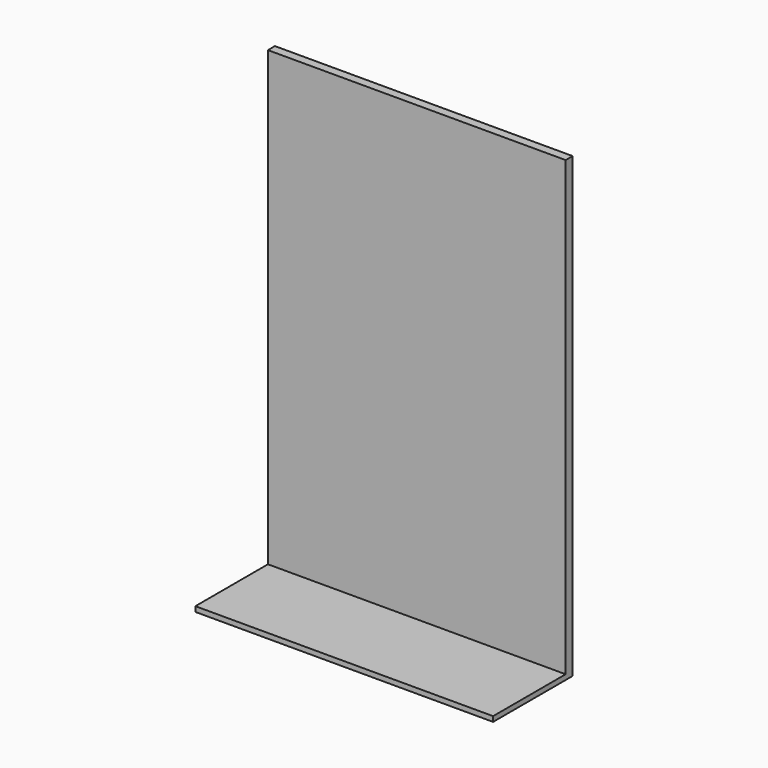
from build123d import *

# Parameters (mm, degrees)
F1_DEPTH = 228.6
F0_W     = 14.8112885654
F0_H     = 40.948856622
F0_W_2   = 2.9041729867
F0_W_3   = 24.6854852885
F0_W_4   = 4.3562594801
F0_W_5   = 24.3950609583
F0_W_6   = 6.6796054598
F0_W_7   = 55.7601368055
F2_DEPTH = 2.54


with BuildPart() as f1:
    # F0 (on Top) → F1 (new body)
    with BuildSketch(Plane.XY):
        Polygon((65.9247487783, 20.474428311), (74.3468627334, 20.474428311), (74.3468627334, 24.8306896538), (-74.3468627334, 24.8306896538), (-74.3468627334, 20.474428311), (-67.667260766, 20.474428311), (-52.8559722006, 20.474428311), (-49.9517992139, 20.474428311), (-25.2663139254, 20.474428311), (-20.9100544453, 20.474428311), (3.4850065131, 20.474428311), (10.1646119729, 20.474428311), align=None)
    extrude(amount=F1_DEPTH)

    # F0 (on Top) → F2 (join)
    with BuildSketch(Plane.XY):
        Polygon((65.9247487783, -24.8306896538), (74.3468627334, -24.8306896538), (74.3468627334, 20.474428311), (65.9247487783, 20.474428311), (65.9247487783, -20.474428311), align=None)
        Polygon((-67.667260766, -24.8306896538), (65.9247487783, -24.8306896538), (65.9247487783, -20.474428311), (10.1646119729, -20.474428311), (3.4850065131, -20.474428311), (-20.9100544453, -20.474428311), (-25.2663139254, -20.474428311), (-49.9517992139, -20.474428311), (-52.8559722006, -20.474428311), (-67.667260766, -20.474428311), align=None)
        Polygon((65.9247487783, 20.474428311), (74.3468627334, 20.474428311), (74.3468627334, 24.8306896538), (-74.3468627334, 24.8306896538), (-74.3468627334, 20.474428311), (-67.667260766, 20.474428311), (-52.8559722006, 20.474428311), (-49.9517992139, 20.474428311), (-25.2663139254, 20.474428311), (-20.9100544453, 20.474428311), (3.4850065131, 20.474428311), (10.1646119729, 20.474428311), align=None)
        Polygon((-74.3468627334, -24.8306896538), (-67.667260766, -24.8306896538), (-67.667260766, -20.474428311), (-67.667260766, 20.474428311), (-74.3468627334, 20.474428311), align=None)
        with Locations((-60.2616164833, 0)):
            Rectangle(F0_W, F0_H)
        with Locations((-51.4038857073, 0)):
            Rectangle(F0_W_2, F0_H)
        with Locations((-37.6090565696, 0)):
            Rectangle(F0_W_3, F0_H)
        with Locations((-23.0881841853, 0)):
            Rectangle(F0_W_4, F0_H)
        with Locations((-8.7125239661, 0)):
            Rectangle(F0_W_5, F0_H)
        with Locations((6.824809243, 0)):
            Rectangle(F0_W_6, F0_H)
        with Locations((38.0446803756, 0)):
            Rectangle(F0_W_7, F0_H)
    extrude(amount=F2_DEPTH)


solid = f1.part
